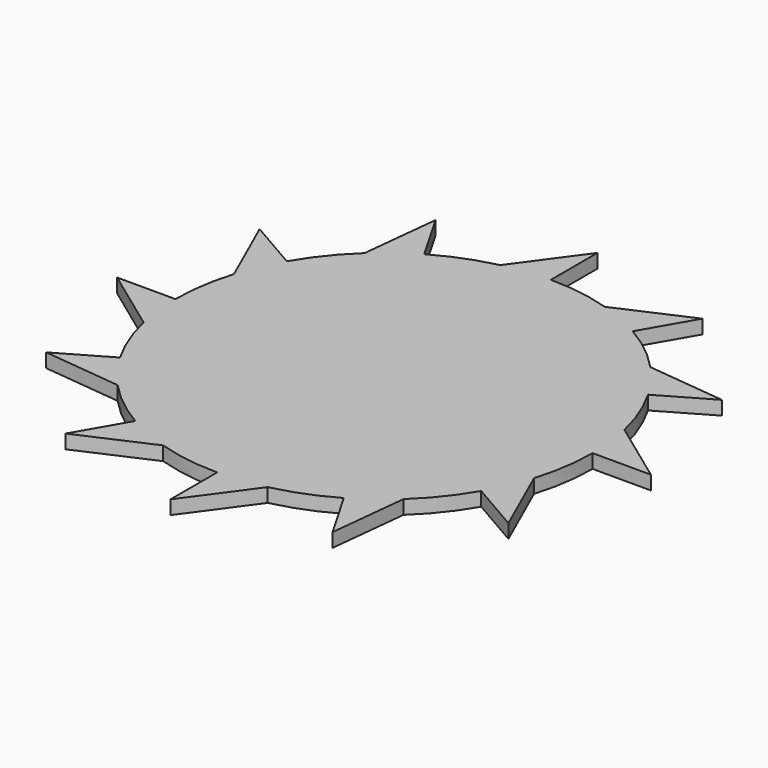
from build123d import *

# Parameters (mm, degrees)
F1_DEPTH = 2.54


with BuildPart() as f1:
    # F0 (on Top) → F1 (new body)
    with BuildSketch(Plane.XY):
        with BuildLine():
            ThreePointArc((36.405087, -11.237421), (37.673889, -5.682261), (38.1, 0))
            ThreePointArc((38.1, 0), (37.86086, 4.262077), (37.146441, 8.470652))
            ThreePointArc((37.146441, 8.470652), (35.467675, 13.915962), (32.995568, 19.05))
            ThreePointArc((32.995568, 19.05), (30.657428, 22.621497), (27.934436, 25.90902))
            ThreePointArc((27.934436, 25.90902), (23.757927, 29.785414), (19.05, 32.995568))
            ThreePointArc((19.05, 32.995568), (15.239363, 34.919505), (11.237421, 36.405087))
            ThreePointArc((11.237421, 36.405087), (5.682261, 37.673889), (0, 38.1))
            ThreePointArc((0, 38.1), (-4.262077, 37.86086), (-8.470652, 37.146441))
            ThreePointArc((-8.470652, 37.146441), (-13.915962, 35.467675), (-19.05, 32.995568))
            ThreePointArc((-19.05, 32.995568), (-22.621497, 30.657428), (-25.90902, 27.934436))
            ThreePointArc((-25.90902, 27.934436), (-29.785414, 23.757927), (-32.995568, 19.05))
            ThreePointArc((-32.995568, 19.05), (-34.919505, 15.239363), (-36.405087, 11.237421))
            ThreePointArc((-36.405087, 11.237421), (-37.673889, 5.682261), (-38.1, 0))
            ThreePointArc((-38.1, 0), (-37.86086, -4.262077), (-37.146441, -8.470652))
            ThreePointArc((-37.146441, -8.470652), (-35.467675, -13.915962), (-32.995568, -19.05))
            ThreePointArc((-32.995568, -19.05), (-30.657428, -22.621497), (-27.934436, -25.90902))
            ThreePointArc((-27.934436, -25.90902), (-23.757927, -29.785414), (-19.05, -32.995568))
            ThreePointArc((-19.05, -32.995568), (-15.239363, -34.919505), (-11.237421, -36.405087))
            ThreePointArc((-11.237421, -36.405087), (-5.682261, -37.673889), (0, -38.1))
            ThreePointArc((0, -38.1), (4.262077, -37.86086), (8.470652, -37.146441))
            ThreePointArc((8.470652, -37.146441), (13.915962, -35.467675), (19.05, -32.995568))
            ThreePointArc((19.05, -32.995568), (22.621497, -30.657428), (25.90902, -27.934436))
            ThreePointArc((25.90902, -27.934436), (29.785414, -23.757927), (32.995568, -19.05))
            ThreePointArc((32.995568, -19.05), (34.919505, -15.239363), (36.405087, -11.237421))
        make_face()
        with BuildLine():
            ThreePointArc((37.146441, 8.470652), (37.86086, 4.262077), (38.1, 0))
            Line((38.1, 0), (48.765667, 0))
            Line((48.765667, 0), (37.146441, 8.470652))
        make_face()
        with BuildLine():
            Line((42.232306, -24.382833), (36.405087, -11.237421))
            ThreePointArc((36.405087, -11.237421), (34.919505, -15.239363), (32.995568, -19.05))
            Line((32.995568, -19.05), (42.232306, -24.382833))
        make_face()
        with BuildLine():
            ThreePointArc((27.934436, 25.90902), (30.657428, 22.621497), (32.995568, 19.05))
            Line((32.995568, 19.05), (42.232306, 24.382833))
            Line((42.232306, 24.382833), (27.934436, 25.90902))
        make_face()
        with BuildLine():
            Line((24.382833, -42.232306), (25.90902, -27.934436))
            ThreePointArc((25.90902, -27.934436), (22.621497, -30.657428), (19.05, -32.995568))
            Line((19.05, -32.995568), (24.382833, -42.232306))
        make_face()
        with BuildLine():
            ThreePointArc((11.237421, 36.405087), (15.239363, 34.919505), (19.05, 32.995568))
            Line((19.05, 32.995568), (24.382833, 42.232306))
            Line((24.382833, 42.232306), (11.237421, 36.405087))
        make_face()
        with BuildLine():
            Line((0, -48.765667), (8.470652, -37.146441))
            ThreePointArc((8.470652, -37.146441), (4.262077, -37.86086), (0, -38.1))
            Line((0, -38.1), (0, -48.765667))
        make_face()
        with BuildLine():
            ThreePointArc((-8.470652, 37.146441), (-4.262077, 37.86086), (0, 38.1))
            Line((0, 38.1), (0, 48.765667))
            Line((0, 48.765667), (-8.470652, 37.146441))
        make_face()
        with BuildLine():
            Line((-24.382833, -42.232306), (-11.237421, -36.405087))
            ThreePointArc((-11.237421, -36.405087), (-15.239363, -34.919505), (-19.05, -32.995568))
            Line((-19.05, -32.995568), (-24.382833, -42.232306))
        make_face()
        with BuildLine():
            ThreePointArc((-25.90902, 27.934436), (-22.621497, 30.657428), (-19.05, 32.995568))
            Line((-19.05, 32.995568), (-24.382833, 42.232306))
            Line((-24.382833, 42.232306), (-25.90902, 27.934436))
        make_face()
        with BuildLine():
            Line((-42.232306, -24.382833), (-27.934436, -25.90902))
            ThreePointArc((-27.934436, -25.90902), (-30.657428, -22.621497), (-32.995568, -19.05))
            Line((-32.995568, -19.05), (-42.232306, -24.382833))
        make_face()
        with BuildLine():
            ThreePointArc((-36.405087, 11.237421), (-34.919505, 15.239363), (-32.995568, 19.05))
            Line((-32.995568, 19.05), (-42.232306, 24.382833))
            Line((-42.232306, 24.382833), (-36.405087, 11.237421))
        make_face()
        with BuildLine():
            Line((-48.765667, 0), (-37.146441, -8.470652))
            ThreePointArc((-37.146441, -8.470652), (-37.86086, -4.262077), (-38.1, 0))
            Line((-38.1, 0), (-48.765667, 0))
        make_face()
    extrude(amount=F1_DEPTH)


solid = f1.part
